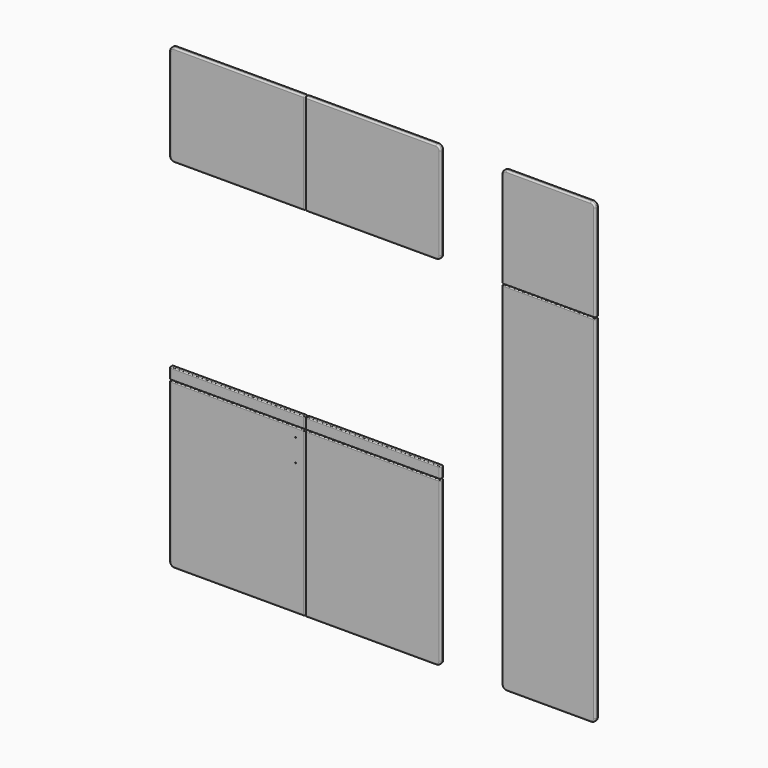
from build123d import *

# Parameters (mm, degrees)
F0_W     = 602
F0_H     = 730
F1_DEPTH = 18
F0_H_2   = 50
F0_H_3   = 450
F0_W_2   = 416
F0_H_4   = 1588.1713948357
F2_R     = 17.5
F3_DEPTH = 12
F4_D     = 2
F4_DEPTH = 5
F4_TIP   = 0.600860619
F5_D     = 4
F6_R     = 20
F6_2_R   = 20
F6_3_R   = 20
F6_4_R   = 20
F6_5_R   = 20
F6_6_R   = 20
F7_R     = 6.5
F7_2_R   = 6.5
F7_3_R   = 6.5
F7_4_R   = 6.5
F7_5_R   = 6.5
F7_6_R   = 6.5
F7_7_R   = 6.5
F7_8_R   = 6.5
F8_R     = 4
F8_2_R   = 4
F8_3_R   = 4
F8_4_R   = 4
F8_5_R   = 4
F8_6_R   = 4
F8_7_R   = 4
F8_8_R   = 4
F9_R     = 4
F9_2_R   = 4
F9_3_R   = 4
F9_4_R   = 4
F9_5_R   = 4
F9_6_R   = 4
F9_7_R   = 4
F9_8_R   = 4


with BuildPart() as f1:
    # F0 (on Front) → F1 (new body)
    with BuildSketch(Plane.XZ):
        with Locations((-2.1000243723, 60.2133536232)):
            Rectangle(F0_W, F0_H)
    extrude(amount=F1_DEPTH)

    # F2 (on face) → F3 (cut)
    with BuildSketch(Plane(origin=(0, 0, 0), x_dir=(-1, 0, 0), z_dir=(0, 1, 0))):
        with Locations((281.1000243723, 325.2133536232)):
            Circle(F2_R)
        with Locations((281.1000243723, -204.7866463768)):
            Circle(F2_R)
    extrude(amount=-F3_DEPTH, mode=Mode.SUBTRACT)

    # F4
    with Locations(Plane(origin=(0, 0, 0), x_dir=(-1, 0, 0), z_dir=(0, 1, 0))):
        with Locations((275.1000243723, 349.2133536232), (275.1000243723, 301.2133536232), (275.1000243723, -180.7866463768), (275.1000243723, -228.7866463768)):
            Hole(F4_D / 2, depth=F4_DEPTH)
            with Locations((0, 0, -(F4_DEPTH + F4_TIP / 2))):  # 118° drill point
                Cone(0, F4_D / 2, F4_TIP, mode=Mode.SUBTRACT)

    # F5 (through all)
    with Locations(Plane(origin=(0, 0, 0), x_dir=(-1, 0, 0), z_dir=(0, 1, 0))):
        with Locations((-258.8999756277, 385.2133536232), (-258.8999756277, 285.2133536232)):
            Hole(F5_D / 2)

    # F6
    f6_edges = [f1.edges().sort_by_distance(p)[0] for p in [
        (-303.100024, -9, -304.786646),
    ]]
    fillet(f6_edges, radius=F6_R)

    # F7
    f7_edges = [f1.edges().sort_by_distance(p)[0] for p in [
        (7.899976, -18, -304.786646),
    ]]
    fillet(f7_edges, radius=F7_R)

    # F8
    f8_edges = [f1.edges().sort_by_distance(p)[0] for p in [
        (298.899976, -9, 425.213354),
        (1.149976, -18, 425.213354),
        (298.899976, -18, 63.463354),
    ]]
    fillet(f8_edges, radius=F8_R)

    # F9
    f9_edges = [f1.edges().sort_by_distance(p)[0] for p in [
        (-2.100024, 0, 425.213354),
    ]]
    fillet(f9_edges, radius=F9_R)


with BuildPart() as f1b:
    # F0 (on Front) → F1, piece 2 (new body)
    with BuildSketch(Plane.XZ):
        with Locations((603.8999756277, 60.2133536232)):
            Rectangle(F0_W, F0_H)
    extrude(amount=F1_DEPTH)

    # F6#2
    f6_2_edges = [f1b.edges().sort_by_distance(p)[0] for p in [
        (904.899976, -9, -304.786646),
    ]]
    fillet(f6_2_edges, radius=F6_2_R)

    # F7#3
    f7_3_edges = [f1b.edges().sort_by_distance(p)[0] for p in [
        (593.899976, -18, -304.786646),
    ]]
    fillet(f7_3_edges, radius=F7_3_R)

    # F8#2
    f8_2_edges = [f1b.edges().sort_by_distance(p)[0] for p in [
        (302.899976, -9, 425.213354),
        (600.649976, -18, 425.213354),
        (302.899976, -18, 63.463354),
    ]]
    fillet(f8_2_edges, radius=F8_2_R)

    # F9#2
    f9_2_edges = [f1b.edges().sort_by_distance(p)[0] for p in [
        (603.899976, 0, 425.213354),
    ]]
    fillet(f9_2_edges, radius=F9_2_R)


with BuildPart() as f1c:
    # F0 (on Front) → F1, piece 3 (new body)
    with BuildSketch(Plane.XZ):
        with Locations((-2.1000243723, 454.2133536232)):
            Rectangle(F0_W, F0_H_2)
    extrude(amount=F1_DEPTH)

    # F7#2
    f7_2_edges = [f1c.edges().sort_by_distance(p)[0] for p in [
        (-303.100024, -18, 454.213354),
    ]]
    fillet(f7_2_edges, radius=F7_2_R)

    # F8#4
    f8_4_edges = [f1c.edges().sort_by_distance(p)[0] for p in [
        (298.899976, -9, 479.213354),
        (298.899976, -9, 429.213354),
        (1.149976, -18, 429.213354),
        (298.899976, -18, 454.213354),
        (1.149976, -18, 479.213354),
    ]]
    fillet(f8_4_edges, radius=F8_4_R)

    # F9#4
    f9_4_edges = [f1c.edges().sort_by_distance(p)[0] for p in [
        (-2.100024, 0, 429.213354),
    ]]
    fillet(f9_4_edges, radius=F9_4_R)


with BuildPart() as f1d:
    # F0 (on Front) → F1, piece 4 (new body)
    with BuildSketch(Plane.XZ):
        with Locations((603.8999756277, 454.2133536232)):
            Rectangle(F0_W, F0_H_2)
    extrude(amount=F1_DEPTH)

    # F7#4
    f7_4_edges = [f1d.edges().sort_by_distance(p)[0] for p in [
        (904.899976, -18, 454.213354),
    ]]
    fillet(f7_4_edges, radius=F7_4_R)

    # F8#3
    f8_3_edges = [f1d.edges().sort_by_distance(p)[0] for p in [
        (302.899976, -9, 479.213354),
        (302.899976, -9, 429.213354),
        (600.649976, -18, 429.213354),
        (302.899976, -18, 454.213354),
        (600.649976, -18, 479.213354),
    ]]
    fillet(f8_3_edges, radius=F8_3_R)

    # F9#3
    f9_3_edges = [f1d.edges().sort_by_distance(p)[0] for p in [
        (603.899976, 0, 429.213354),
    ]]
    fillet(f9_3_edges, radius=F9_3_R)


with BuildPart() as f1e:
    # F0 (on Front) → F1, piece 5 (new body)
    with BuildSketch(Plane.XZ):
        with Locations((-2.1000243723, 1512.3847484589)):
            Rectangle(F0_W, F0_H_3)
    extrude(amount=F1_DEPTH)

    # F6#6
    f6_6_edges = [f1e.edges().sort_by_distance(p)[0] for p in [
        (-303.100024, -9, 1737.384748),
        (-303.100024, -9, 1287.384748),
    ]]
    fillet(f6_6_edges, radius=F6_6_R)

    # F7#5
    f7_5_edges = [f1e.edges().sort_by_distance(p)[0] for p in [
        (7.899976, -18, 1287.384748),
    ]]
    fillet(f7_5_edges, radius=F7_5_R)

    # F8#8
    f8_8_edges = [f1e.edges().sort_by_distance(p)[0] for p in [
        (298.899976, -18, 1512.384748),
    ]]
    fillet(f8_8_edges, radius=F8_8_R)

    # F9#5
    f9_5_edges = [f1e.edges().sort_by_distance(p)[0] for p in [
        (5.899976, 0, 1287.384748),
    ]]
    fillet(f9_5_edges, radius=F9_5_R)


with BuildPart() as f1f:
    # F0 (on Front) → F1, piece 6 (new body)
    with BuildSketch(Plane.XZ):
        with Locations((603.8999756277, 1512.3847484589)):
            Rectangle(F0_W, F0_H_3)
    extrude(amount=F1_DEPTH)

    # F6#5
    f6_5_edges = [f1f.edges().sort_by_distance(p)[0] for p in [
        (904.899976, -9, 1737.384748),
        (904.899976, -9, 1287.384748),
    ]]
    fillet(f6_5_edges, radius=F6_5_R)

    # F7#6
    f7_6_edges = [f1f.edges().sort_by_distance(p)[0] for p in [
        (593.899976, -18, 1287.384748),
    ]]
    fillet(f7_6_edges, radius=F7_6_R)

    # F8#7
    f8_7_edges = [f1f.edges().sort_by_distance(p)[0] for p in [
        (302.899976, -18, 1512.384748),
    ]]
    fillet(f8_7_edges, radius=F8_7_R)

    # F9#6
    f9_6_edges = [f1f.edges().sort_by_distance(p)[0] for p in [
        (595.899976, 0, 1287.384748),
    ]]
    fillet(f9_6_edges, radius=F9_6_R)


with BuildPart() as f1g:
    # F0 (on Front) → F1, piece 7 (new body)
    with BuildSketch(Plane.XZ):
        with Locations((1386.638458252, 489.299051041)):
            Rectangle(F0_W_2, F0_H_4)
    extrude(amount=F1_DEPTH)

    # F6#3
    f6_3_edges = [f1g.edges().sort_by_distance(p)[0] for p in [
        (1178.638458, -9, -304.786646),
        (1594.638458, -9, -304.786646),
    ]]
    fillet(f6_3_edges, radius=F6_3_R)

    # F7#8
    f7_8_edges = [f1g.edges().sort_by_distance(p)[0] for p in [
        (1178.638458, -18, 499.299051),
    ]]
    fillet(f7_8_edges, radius=F7_8_R)

    # F8#6
    f8_6_edges = [f1g.edges().sort_by_distance(p)[0] for p in [
        (1386.638458, -18, 1283.384748),
    ]]
    fillet(f8_6_edges, radius=F8_6_R)

    # F9#7
    f9_7_edges = [f1g.edges().sort_by_distance(p)[0] for p in [
        (1386.638458, 0, 1283.384748),
    ]]
    fillet(f9_7_edges, radius=F9_7_R)


with BuildPart() as f1h:
    # F0 (on Front) → F1, piece 8 (new body)
    with BuildSketch(Plane.XZ):
        with Locations((1386.638458252, 1512.3847484589)):
            Rectangle(F0_W_2, F0_H_3)
    extrude(amount=F1_DEPTH)

    # F6#4
    f6_4_edges = [f1h.edges().sort_by_distance(p)[0] for p in [
        (1594.638458, -9, 1737.384748),
        (1178.638458, -9, 1737.384748),
    ]]
    fillet(f6_4_edges, radius=F6_4_R)

    # F7#7
    f7_7_edges = [f1h.edges().sort_by_distance(p)[0] for p in [
        (1178.638458, -18, 1502.384748),
    ]]
    fillet(f7_7_edges, radius=F7_7_R)

    # F8#5
    f8_5_edges = [f1h.edges().sort_by_distance(p)[0] for p in [
        (1386.638458, -18, 1287.384748),
    ]]
    fillet(f8_5_edges, radius=F8_5_R)

    # F9#8
    f9_8_edges = [f1h.edges().sort_by_distance(p)[0] for p in [
        (1386.638458, 0, 1287.384748),
    ]]
    fillet(f9_8_edges, radius=F9_8_R)


solid = Compound([f1.part, f1b.part, f1c.part, f1d.part, f1e.part, f1f.part, f1g.part, f1h.part])
